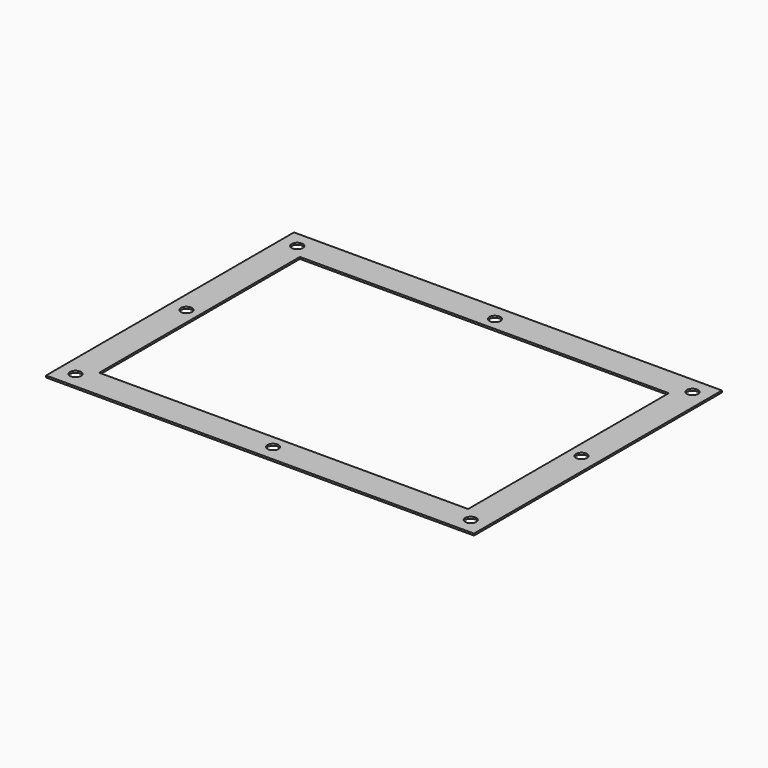
from build123d import *

# Parameters (mm, degrees)
F0_W     = 368.3
F0_H     = 266.7
F0_R     = 4.7625
F0_W_2   = 317.5
F0_H_2   = 215.9
F1_DEPTH = 1.5875


with BuildPart() as f1:
    # F0 (on Top) → F1 (new body)
    with BuildSketch(Plane.XY):
        Rectangle(F0_W, F0_H)
        with Locations((-170.053, -119.253)):
            Circle(F0_R, mode=Mode.SUBTRACT)
        with Locations((0, -119.253)):
            Circle(F0_R, mode=Mode.SUBTRACT)
        with Locations((170.053, -119.253)):
            Circle(F0_R, mode=Mode.SUBTRACT)
        with Locations((-170.053, 0)):
            Circle(F0_R, mode=Mode.SUBTRACT)
        with Locations((-170.053, 119.253)):
            Circle(F0_R, mode=Mode.SUBTRACT)
        Rectangle(F0_W_2, F0_H_2, mode=Mode.SUBTRACT)
        with Locations((170.053, 0)):
            Circle(F0_R, mode=Mode.SUBTRACT)
        with Locations((0, 119.253)):
            Circle(F0_R, mode=Mode.SUBTRACT)
        with Locations((170.053, 119.253)):
            Circle(F0_R, mode=Mode.SUBTRACT)
    extrude(amount=F1_DEPTH)


solid = f1.part
